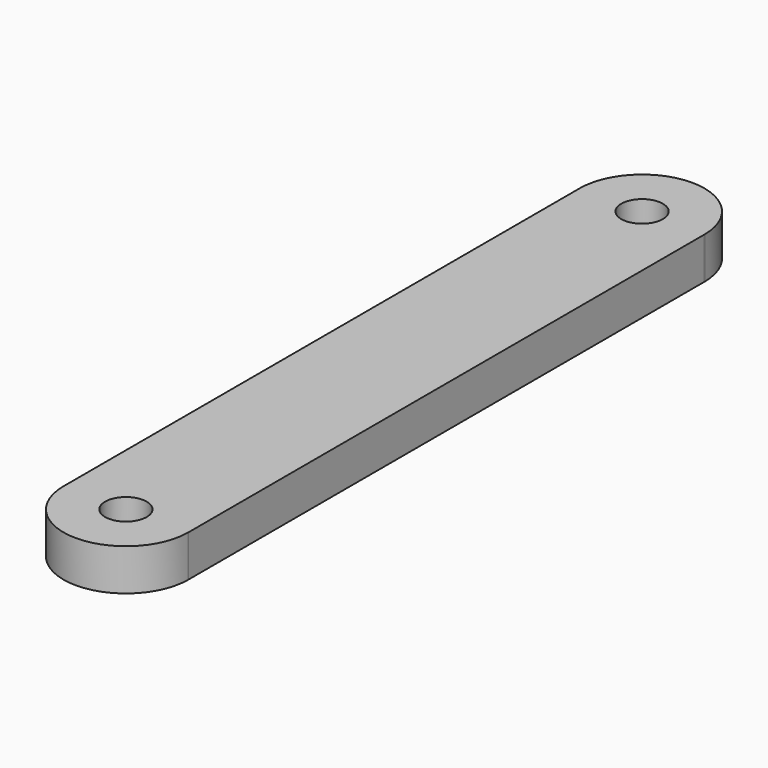
from build123d import *

# Parameters (mm, degrees)
F0_R     = 0.25
F1_DEPTH = 0.5


with BuildPart() as f1:
    # F0 (on Top) → F1 (new body)
    with BuildSketch(Plane.XY):
        with BuildLine():
            Line((0.749984, 29.694685), (0.749984, 37.434874))
            ThreePointArc((0.749984, 37.434874), (0.75, 37.43978), (0.749984, 37.444685))
            ThreePointArc((0.749984, 37.444685), (0, 38.18978), (-0.749984, 37.444685))
            ThreePointArc((-0.749984, 37.444685), (-0.75, 37.43978), (-0.749984, 37.434874))
            Line((-0.749984, 37.434874), (-0.749984, 29.694685))
            ThreePointArc((-0.749984, 29.694685), (-0.75, 29.68978), (-0.749984, 29.684874))
            ThreePointArc((-0.749984, 29.684874), (0, 28.93978), (0.749984, 29.684874))
            ThreePointArc((0.749984, 29.684874), (0.75, 29.68978), (0.749984, 29.694685))
        make_face()
        with Locations((0, 29.68978)):
            Circle(F0_R, mode=Mode.SUBTRACT)
        with Locations((0, 37.43978)):
            Circle(F0_R, mode=Mode.SUBTRACT)
    extrude(amount=F1_DEPTH)


solid = f1.part
